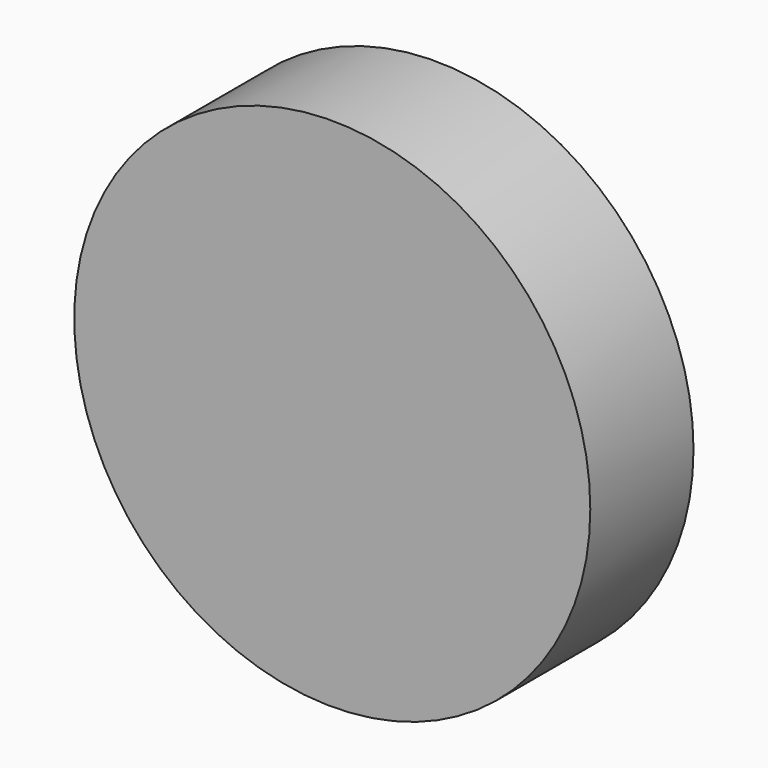
from build123d import *

# Parameters (mm, degrees)
F0_R     = 20
F1_DEPTH = 10
F2_R     = 19
F2_R_2   = 17.5
F3_DEPTH = 2


with BuildPart() as f1:
    # F0 (on Front) → F1 (new body)
    with BuildSketch(Plane.XZ):
        Circle(F0_R)
    extrude(amount=F1_DEPTH)

    # F2 (on Front) → F3 (cut)
    with BuildSketch(Plane.XZ):
        Circle(F2_R)
        Circle(F2_R_2, mode=Mode.SUBTRACT)
    extrude(amount=F3_DEPTH, mode=Mode.SUBTRACT)


solid = f1.part
